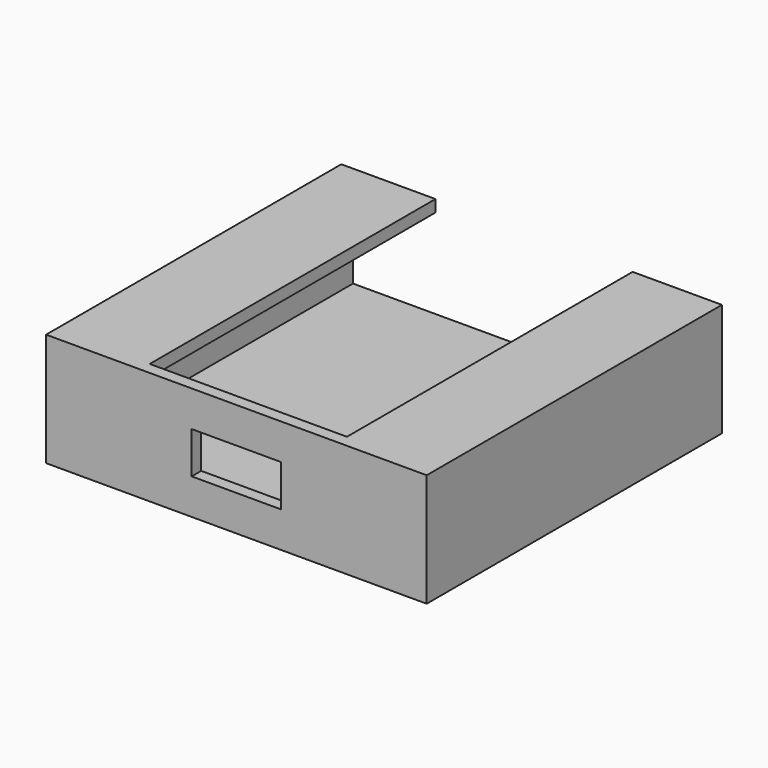
from build123d import *

# Parameters (mm, degrees)
F0_W     = 15
F0_H     = 7
F1_DEPTH = 2
F2_DEPTH = 60


with BuildPart() as f1:
    # F0 (on Front) → F1 (new body)
    with BuildSketch(Plane.XZ):
        Polygon((0, 23.638431), (0, 8.638419), (60, 8.638419), (60, 23.638419), (46.979439, 23.638419), (46.979439, 25.643766), (13.85323, 25.643766), (13.85323, 23.638431), align=None)
        with Locations((30, 16.138419)):
            Rectangle(F0_W, F0_H, mode=Mode.SUBTRACT)
        Polygon((60, 8.638419), (0, 8.638419), (0, 23.638431), (13.85323, 23.638431), (13.85323, 25.643766), (-1.963923, 25.643766), (-1.963923, 6.638419), (61.979439, 6.638419), (61.979439, 25.643766), (46.979439, 25.643766), (46.979439, 23.638419), (60, 23.638419), align=None)
    extrude(amount=F1_DEPTH)

    # F0 (on Front) → F2 (join)
    with BuildSketch(Plane.XZ):
        Polygon((60, 8.638419), (0, 8.638419), (0, 23.638431), (13.85323, 23.638431), (13.85323, 25.643766), (-1.963923, 25.643766), (-1.963923, 6.638419), (61.979439, 6.638419), (61.979439, 25.643766), (46.979439, 25.643766), (46.979439, 23.638419), (60, 23.638419), align=None)
    extrude(amount=-F2_DEPTH)


solid = f1.part
